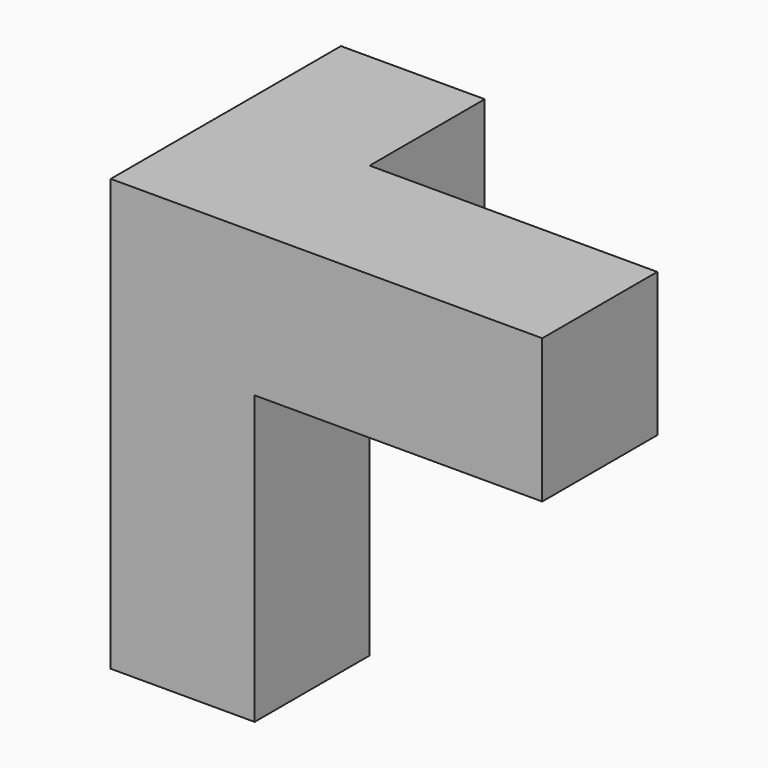
from build123d import *

# Parameters (mm, degrees)
F0_W     = 18.9992
F0_H     = 18.9865
F0_W_2   = 18.9865
F1_DEPTH = 18.9865
F2_W     = 18.9865
F2_H     = 18.9865
F3_DEPTH = 18.9992


with BuildPart() as f1:
    # F0 (on Front) → F1 (new body)
    with BuildSketch(Plane.XZ):
        with Locations((-9.4996, 9.49325)):
            Rectangle(F0_W, F0_H)
        with Locations((-9.4996, -28.47975)):
            Rectangle(F0_W, F0_H)
        with Locations((28.49245, 9.49325)):
            Rectangle(F0_W_2, F0_H)
        with Locations((9.4996, 9.49325)):
            Rectangle(F0_W, F0_H)
        with Locations((-9.4996, -9.49325)):
            Rectangle(F0_W, F0_H)
    extrude(amount=F1_DEPTH)

    # F2 (on Front) → F3 (join)
    with BuildSketch(Plane.XZ):
        with Locations((-9.49325, 9.49325)):
            Rectangle(F2_W, F2_H)
    extrude(amount=-F3_DEPTH)


solid = f1.part
